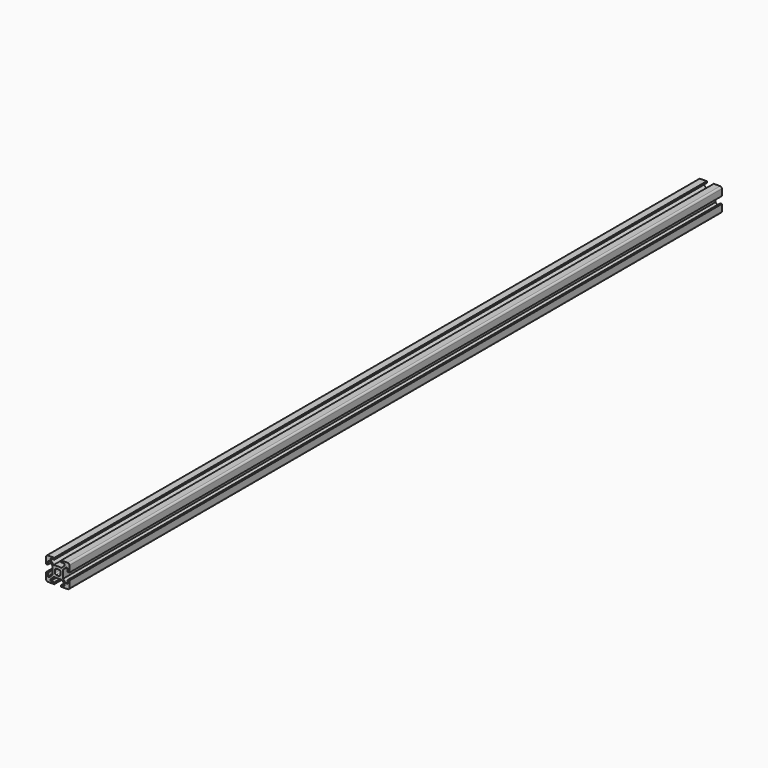
from build123d import *

# Parameters (mm, degrees)
F1_DEPTH = 700


with BuildPart() as f1:
    # F0 (on Front) → F1 (new body)
    with BuildSketch(Plane.XZ):
        with BuildLine():
            Line((3, -10), (8.5, -10))
            ThreePointArc((8.5, -10), (9.5606601718, -9.5606601718), (10, -8.5))
            Line((10, -8.5), (10, -3))
            Line((10, -3), (8.5, -3))
            Line((8.5, -3), (8.5, -6))
            Line((8.5, -6), (7.0606601718, -6))
            Line((7.0606601718, -6), (4.5, -3.4393398282))
            Line((4.5, -3.4393398282), (4.5, 3.4393398282))
            Line((4.5, 3.4393398282), (7.0606601718, 6))
            Line((7.0606601718, 6), (8.5, 6))
            Line((8.5, 6), (8.5, 3))
            Line((8.5, 3), (10, 3))
            Line((10, 3), (10, 8.5))
            ThreePointArc((10, 8.5), (9.5606601718, 9.5606601718), (8.5, 10))
            Line((8.5, 10), (3, 10))
            Line((3, 10), (3, 8.5))
            Line((3, 8.5), (6, 8.5))
            Line((6, 8.5), (6, 7.0606601718))
            Line((6, 7.0606601718), (3.4393398282, 4.5))
            Line((3.4393398282, 4.5), (-3.4393398282, 4.5))
            Line((-3.4393398282, 4.5), (-6, 7.0606601718))
            Line((-6, 7.0606601718), (-6, 8.5))
            Line((-6, 8.5), (-3, 8.5))
            Line((-3, 8.5), (-3, 10))
            Line((-3, 10), (-8.5, 10))
            ThreePointArc((-8.5, 10), (-9.5606601718, 9.5606601718), (-10, 8.5))
            Line((-10, 8.5), (-10, 3))
            Line((-10, 3), (-8.5, 3))
            Line((-8.5, 3), (-8.5, 6))
            Line((-8.5, 6), (-7.0606601718, 6))
            Line((-7.0606601718, 6), (-4.5, 3.4393398282))
            Line((-4.5, 3.4393398282), (-4.5, -3.4393398282))
            Line((-4.5, -3.4393398282), (-7.0606601718, -6))
            Line((-7.0606601718, -6), (-8.5, -6))
            Line((-8.5, -6), (-8.5, -3))
            Line((-8.5, -3), (-10, -3))
            Line((-10, -3), (-10, -8.5))
            ThreePointArc((-10, -8.5), (-9.5606601718, -9.5606601718), (-8.5, -10))
            Line((-8.5, -10), (-3, -10))
            Line((-3, -10), (-3, -8.5))
            Line((-3, -8.5), (-6, -8.5))
            Line((-6, -8.5), (-6, -7.0606601718))
            Line((-6, -7.0606601718), (-3.4393398282, -4.5))
            Line((-3.4393398282, -4.5), (3.4393398282, -4.5))
            Line((3.4393398282, -4.5), (6, -7.0606601718))
            Line((6, -7.0606601718), (6, -8.5))
            Line((6, -8.5), (3, -8.5))
            Line((3, -8.5), (3, -10))
        make_face()
        with BuildLine():
            ThreePointArc((-1.1560121095, 2.2166722813), (0, 2.5), (1.1560121095, 2.2166722813))
            Line((1.1560121095, 2.2166722813), (1.4393398282, 2.5))
            Line((1.4393398282, 2.5), (2.5, 1.4393398282))
            Line((2.5, 1.4393398282), (2.2166722813, 1.1560121095))
            ThreePointArc((2.2166722813, 1.1560121095), (2.5, 0), (2.2166722813, -1.1560121095))
            Line((2.2166722813, -1.1560121095), (2.5, -1.4393398282))
            Line((2.5, -1.4393398282), (1.4393398282, -2.5))
            Line((1.4393398282, -2.5), (1.1560121095, -2.2166722813))
            ThreePointArc((1.1560121095, -2.2166722813), (0, -2.5), (-1.1560121095, -2.2166722813))
            Line((-1.1560121095, -2.2166722813), (-1.4393398282, -2.5))
            Line((-1.4393398282, -2.5), (-2.5, -1.4393398282))
            Line((-2.5, -1.4393398282), (-2.2166722813, -1.1560121095))
            ThreePointArc((-2.2166722813, -1.1560121095), (-2.5, 0), (-2.2166722813, 1.1560121095))
            Line((-2.2166722813, 1.1560121095), (-2.5, 1.4393398282))
            Line((-2.5, 1.4393398282), (-1.4393398282, 2.5))
            Line((-1.4393398282, 2.5), (-1.1560121095, 2.2166722813))
        make_face(mode=Mode.SUBTRACT)
    extrude(amount=F1_DEPTH)


solid = f1.part
